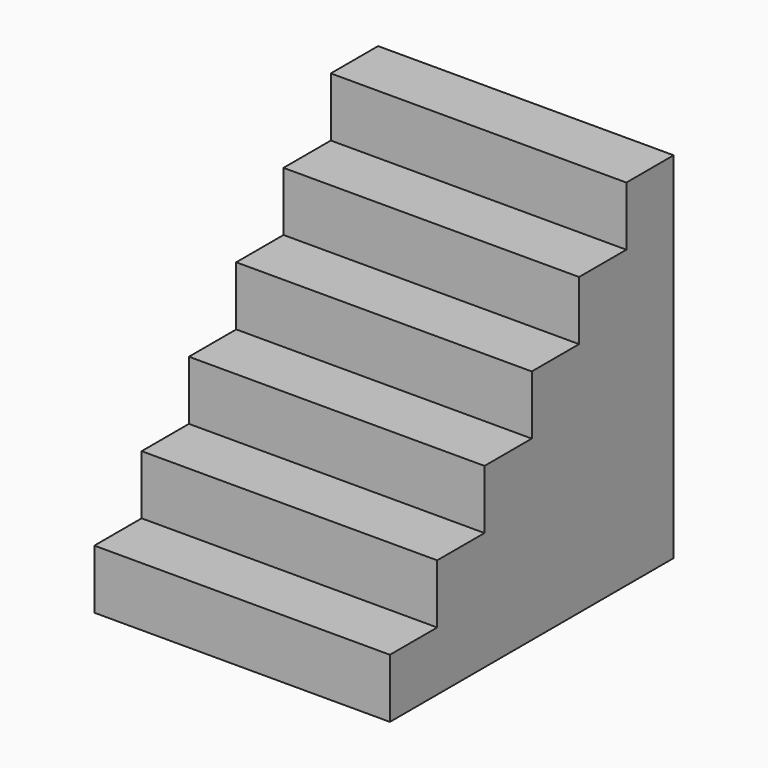
from build123d import *

# Parameters (mm, degrees)
F0_W      = 50
F0_H      = 10
F1_DEPTH  = 60
F2_W      = 50
F2_H      = 10
F3_DEPTH  = 10
F4_W      = 50
F4_H      = 10
F5_DEPTH  = 20
F6_W      = 50
F6_H      = 10
F7_DEPTH  = 30
F8_W      = 50
F8_H      = 10
F9_DEPTH  = 40
F10_W     = 50
F10_H     = 10
F11_DEPTH = 50


with BuildPart() as f1:
    # F0 (on Top) → F1 (new body)
    with BuildSketch(Plane.XY):
        Rectangle(F0_W, F0_H)
    extrude(amount=F1_DEPTH)

    # F2 (on face) → F3 (join)
    with BuildSketch(Plane.XZ.offset(5)):
        with Locations((0, 45)):
            Rectangle(F2_W, F2_H)
    extrude(amount=F3_DEPTH)

    # F4 (on face) → F5 (join)
    with BuildSketch(Plane.XZ.offset(5)):
        with Locations((0, 35)):
            Rectangle(F4_W, F4_H)
    extrude(amount=F5_DEPTH)

    # F6 (on face) → F7 (join)
    with BuildSketch(Plane.XZ.offset(5)):
        with Locations((0, 25)):
            Rectangle(F6_W, F6_H)
    extrude(amount=F7_DEPTH)

    # F8 (on face) → F9 (join)
    with BuildSketch(Plane.XZ.offset(5)):
        with Locations((0, 15)):
            Rectangle(F8_W, F8_H)
    extrude(amount=F9_DEPTH)

    # F10 (on face) → F11 (join)
    with BuildSketch(Plane.XZ.offset(5)):
        with Locations((0, 5)):
            Rectangle(F10_W, F10_H)
    extrude(amount=F11_DEPTH)


solid = f1.part
